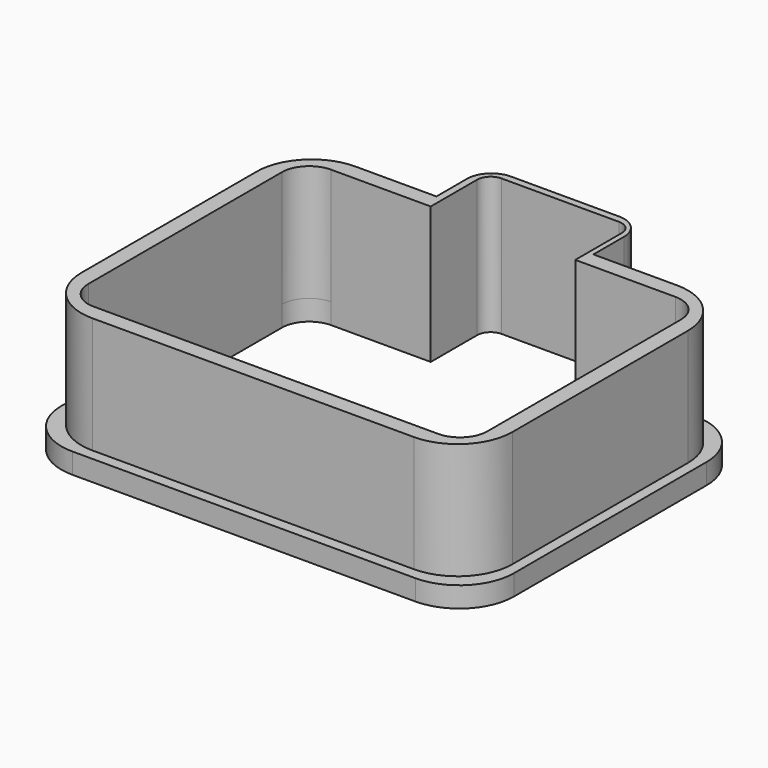
from build123d import *

# Parameters (mm, degrees)
F2_DEPTH  = 25.4
F4_DEPTH  = 25.4
F5_DEPTH  = 3.81
F6_DEPTH  = 25.4
F8_DEPTH  = 25.4
F10_DEPTH = 25.4


with BuildPart() as f2:
    # F1 (on Top) → F2 (new body)
    with BuildSketch(Plane.XY):
        with BuildLine():
            Line((27.797497, 29.7675), (-31.882503, 29.7675))
            ThreePointArc((-31.882503, 29.7675), (-39.066708, 26.791705), (-42.042503, 19.6075))
            Line((-42.042503, 19.6075), (-42.042503, -21.0725))
            ThreePointArc((-42.042503, -21.0725), (-39.066708, -28.256705), (-31.882503, -31.2325))
            Line((-31.882503, -31.2325), (27.797497, -31.2325))
            ThreePointArc((27.797497, -31.2325), (34.981702, -28.256705), (37.957497, -21.0725))
            Line((37.957497, -21.0725), (37.957497, 19.6075))
            ThreePointArc((37.957497, 19.6075), (34.981702, 26.791705), (27.797497, 29.7675))
        make_face()
    extrude(amount=F2_DEPTH)

    # F3 (on face) → F4 (cut)
    with BuildSketch(Plane.XY.offset(25.4)):
        with BuildLine():
            Line((29.901702, 26.791705), (-33.986708, 26.791705))
            ThreePointArc((-33.986708, 26.791705), (-37.57881, 25.303808), (-39.066708, 21.711705))
            Line((-39.066708, 21.711705), (-39.066708, -23.176705))
            ThreePointArc((-39.066708, -23.176705), (-37.57881, -26.768807), (-33.986708, -28.256705))
            Line((-33.986708, -28.256705), (29.901702, -28.256705))
            ThreePointArc((29.901702, -28.256705), (33.493804, -26.768807), (34.981702, -23.176705))
            Line((34.981702, -23.176705), (34.981702, 21.711705))
            ThreePointArc((34.981702, 21.711705), (33.493804, 25.303808), (29.901702, 26.791705))
        make_face()
    extrude(amount=-F4_DEPTH, mode=Mode.SUBTRACT)

    # F0 (on Top) → F5 (join)
    with BuildSketch(Plane.XY):
        with BuildLine():
            Line((29.734908, 31.703549), (-33.945092, 31.703549))
            ThreePointArc((-33.945092, 31.703549), (-41.129297, 28.727754), (-44.105092, 21.543549))
            Line((-44.105092, 21.543549), (-44.105092, -23.136451))
            ThreePointArc((-44.105092, -23.136451), (-41.129297, -30.320656), (-33.945092, -33.296451))
            Line((-33.945092, -33.296451), (29.734908, -33.296451))
            ThreePointArc((29.734908, -33.296451), (36.919113, -30.320656), (39.894908, -23.136451))
            Line((39.894908, -23.136451), (39.894908, 21.543549))
            ThreePointArc((39.894908, 21.543549), (36.919113, 28.727754), (29.734908, 31.703549))
        make_face()
    extrude(amount=F5_DEPTH)

    # F5_face (on face) → F6 (cut)
    with BuildSketch(Plane(origin=(-2.042503, -0.7325, 3.81), x_dir=(1, 0, 0), z_dir=(0, 0, 1))):
        with BuildLine():
            Line((31.944205, 27.524205), (-31.944205, 27.524205))
            ThreePointArc((-31.944205, 27.524205), (-35.536307, 26.036307), (-37.024205, 22.444205))
            Line((-37.024205, 22.444205), (-37.024205, -22.444205))
            ThreePointArc((-37.024205, -22.444205), (-35.536307, -26.036307), (-31.944205, -27.524205))
            Line((-31.944205, -27.524205), (31.944205, -27.524205))
            ThreePointArc((31.944205, -27.524205), (35.536307, -26.036307), (37.024205, -22.444205))
            Line((37.024205, -22.444205), (37.024205, 22.444205))
            ThreePointArc((37.024205, 22.444205), (35.536307, 26.036307), (31.944205, 27.524205))
        make_face()
    extrude(amount=-F6_DEPTH, mode=Mode.SUBTRACT)

    # F7 (on Top) → F8 (join)
    with BuildSketch(Plane.XY):
        with BuildLine():
            Line((-16.826013, 36.880544), (-16.826013, 26.793541))
            Line((-16.826013, 26.793541), (12.303987, 26.793541))
            Line((12.303987, 26.793541), (12.303987, 36.880544))
            ThreePointArc((12.303987, 36.880544), (10.98216, 40.071715), (7.790989, 41.393541))
            Line((7.790989, 41.393541), (-12.313015, 41.393541))
            ThreePointArc((-12.313015, 41.393541), (-15.504187, 40.071715), (-16.826013, 36.880544))
        make_face()
    extrude(amount=F8_DEPTH)

    # F9 (on face) → F10 (cut)
    with BuildSketch(Plane.XY.offset(25.4)):
        with BuildLine():
            Line((8.805542, 40.071715), (-12.990056, 40.071715))
            ThreePointArc((-12.990056, 40.071715), (-14.767815, 39.335343), (-15.504187, 37.557585))
            Line((-15.504187, 37.557585), (-15.504187, 26.791705))
            Line((-15.504187, 26.791705), (11.320142, 26.791705))
            Line((11.320142, 26.791705), (11.320142, 37.557115))
            ThreePointArc((11.320142, 37.557115), (10.583633, 39.335206), (8.805542, 40.071715))
        make_face()
    extrude(amount=-F10_DEPTH, mode=Mode.SUBTRACT)


solid = f2.part
